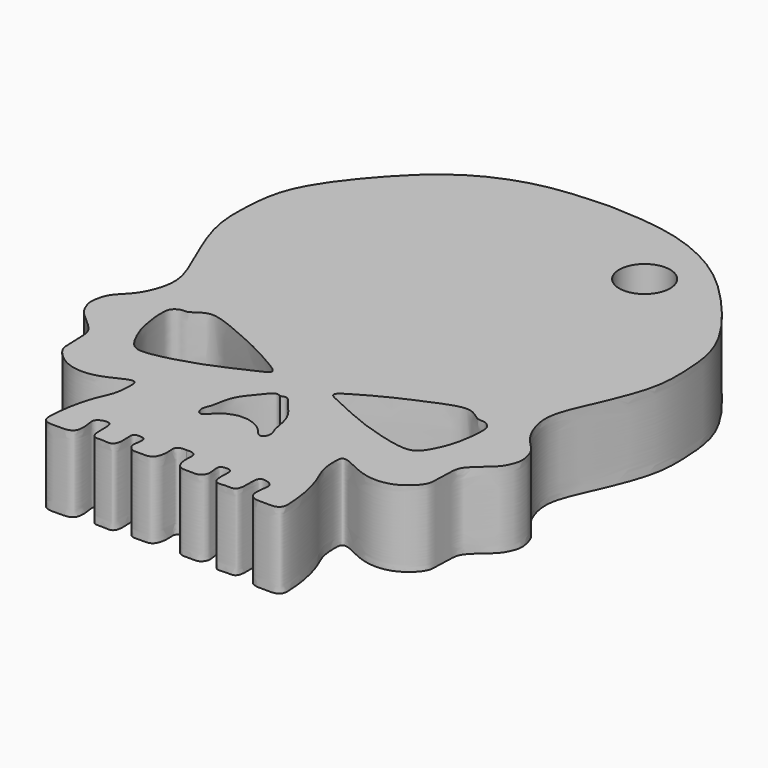
from build123d import *

# Parameters (mm, degrees)
F0_R     = 1
F1_DEPTH = 3


with BuildPart() as f1:
    # F0 (on Top) → F1 (new body)
    with BuildSketch(Plane.XY):
        with BuildLine():
            add(Edge.make_bspline(
                [(-12.2408336028, 23.503176868), (-11.4103945755, 23.4699987669), (-9.7347391672, 23.4030521727), (-7.264092826, 22.3928211933), (-5.4048672411, 20.5595833706), (-3.7344067316, 18.3647939232), (-3.573884551, 16.5518379289), (-3.5436797426, 14.9927936331), (-4.3145768781, 13.1462043906), (-4.8992338903, 11.8773081899), (-5.0138249848, 10.9789423325), (-4.5882463348, 9.8837158669), (-3.9444933397, 9.3995340535), (-3.8082519247, 8.8859373116), (-3.7522349987, 8.5383697091), (-3.9502914121, 8.0303656315), (-4.2499839526, 7.7061902572), (-4.936186847, 7.1623075457), (-5.0194935775, 6.7238970438), (-5.0223568546, 5.9401759747), (-5.0494039457, 5.5628870362), (-5.5487741256, 5.0385178988), (-6.1953214864, 4.784593976), (-6.9234407336, 4.8263136332), (-7.5593584564, 5.1094497553), (-7.8936167216, 5.2877581346), (-8.2281539466, 5.3483678422), (-8.2290751173, 4.8609269738), (-8.181865829, 4.3157382137), (-7.9327788892, 3.8307192173), (-7.7251537907, 3.1978938481), (-7.5917927758, 2.4785776524), (-7.5712822642, 2.0558808672), (-7.5327259701, 1.67797195), (-7.7558575145, 1.4694384501), (-8.1797331198, 1.5007855316), (-8.4997121561, 1.4797550624), (-8.8455921112, 1.6112543965), (-8.8284536186, 2.1628243112), (-8.723597896, 2.5446197001), (-9.0683491592, 2.7014116418), (-9.324565824, 2.6786124177), (-9.3802011753, 2.3813917657), (-9.3404075794, 1.910044513), (-9.4666134541, 1.605899007), (-9.8213151988, 1.6638375431), (-10.1700666553, 1.5875112978), (-10.3273946144, 1.8162166534), (-10.3114425118, 2.2251423511), (-10.2868292916, 2.5710730463), (-10.6177271301, 2.5691114393), (-10.806322149, 2.5020179392), (-10.7470690626, 2.1180790134), (-10.725838652, 1.91342136), (-10.9097706094, 1.6604091412), (-11.2361397619, 1.6917391152), (-11.5572433347, 1.6682988011), (-11.7738789571, 1.7759885742), (-11.8732375358, 2.0900331738), (-11.870835306, 2.4069932209), (-11.8442552434, 2.6215654496), (-12.0046996371, 2.7506900903), (-12.1580197149, 2.7407864035), (-12.2408336028, 2.7354371268)],
                knots=[0, 0, 0, 0, 0.034798512, 0.0701523639, 0.1059936901, 0.1421416225, 0.1711906677, 0.1985036922, 0.2296374652, 0.2555986967, 0.276145718, 0.2994812234, 0.3190584032, 0.3344185498, 0.3474063767, 0.3630060795, 0.3781744286, 0.3981620314, 0.4130099736, 0.4321607614, 0.4457196409, 0.4636930091, 0.4820503674, 0.5007317439, 0.519028979, 0.5328482662, 0.5435334479, 0.5572698867, 0.5739660097, 0.5900557878, 0.6081871977, 0.627021773, 0.6415507058, 0.6545261572, 0.6656300661, 0.6797249028, 0.6924668283, 0.7045225687, 0.7202562413, 0.733444769, 0.7457596114, 0.7559814006, 0.7671829121, 0.7826890223, 0.7940477711, 0.806565694, 0.8193032714, 0.8296468308, 0.8440232875, 0.8557566587, 0.8670470243, 0.8760289978, 0.8889429215, 0.8992455358, 0.9104488838, 0.9227917778, 0.9353107853, 0.9455111939, 0.9578037236, 0.9704231852, 0.9802283138, 0.9893107323, 1, 1, 1, 1], degree=3))
            add(Edge.make_bspline(
                [(-12.2408336028, 23.503176868), (-13.0712726302, 23.4699987669), (-14.7469280385, 23.4030521727), (-17.2175743797, 22.3928211933), (-19.0767999646, 20.5595833706), (-20.7472604741, 18.3647939232), (-20.9077826547, 16.5518379289), (-20.9379874631, 14.9927936331), (-20.1670903276, 13.1462043906), (-19.5824333153, 11.8773081899), (-19.4678422209, 10.9789423325), (-19.8934208708, 9.8837158669), (-20.537173866, 9.3995340535), (-20.673415281, 8.8859373116), (-20.7294322069, 8.5383697091), (-20.5313757936, 8.0303656315), (-20.2316832531, 7.7061902572), (-19.5454803587, 7.1623075457), (-19.4621736282, 6.7238970438), (-19.4593103511, 5.9401759747), (-19.43226326, 5.5628870362), (-18.9328930801, 5.0385178988), (-18.2863457193, 4.784593976), (-17.5582264721, 4.8263136332), (-16.9223087493, 5.1094497553), (-16.5880504841, 5.2877581346), (-16.2535132591, 5.3483678422), (-16.2525920884, 4.8609269738), (-16.2998013767, 4.3157382137), (-16.5488883165, 3.8307192173), (-16.756513415, 3.1978938481), (-16.8898744299, 2.4785776524), (-16.9103849415, 2.0558808672), (-16.9489412356, 1.67797195), (-16.7258096912, 1.4694384501), (-16.3019340859, 1.5007855316), (-15.9819550496, 1.4797550624), (-15.6360750945, 1.6112543965), (-15.6532135871, 2.1628243112), (-15.7580693097, 2.5446197001), (-15.4133180464, 2.7014116418), (-15.1571013817, 2.6786124177), (-15.1014660304, 2.3813917657), (-15.1412596263, 1.910044513), (-15.0150537516, 1.605899007), (-14.6603520069, 1.6638375431), (-14.3116005504, 1.5875112978), (-14.1542725912, 1.8162166534), (-14.1702246939, 2.2251423511), (-14.1948379141, 2.5710730463), (-13.8639400756, 2.5691114393), (-13.6753450566, 2.5020179392), (-13.7345981431, 2.1180790134), (-13.7558285537, 1.91342136), (-13.5718965963, 1.6604091412), (-13.2455274438, 1.6917391152), (-12.924423871, 1.6682988011), (-12.7077882486, 1.7759885742), (-12.6084296699, 2.0900331738), (-12.6108318997, 2.4069932209), (-12.6374119623, 2.6215654496), (-12.4769675686, 2.7506900903), (-12.3236474908, 2.7407864035), (-12.2408336028, 2.7354371268)],
                knots=[0, 0, 0, 0, 0.034798512, 0.0701523639, 0.1059936901, 0.1421416225, 0.1711906677, 0.1985036922, 0.2296374652, 0.2555986967, 0.276145718, 0.2994812234, 0.3190584032, 0.3344185498, 0.3474063767, 0.3630060795, 0.3781744286, 0.3981620314, 0.4130099736, 0.4321607614, 0.4457196409, 0.4636930091, 0.4820503674, 0.5007317439, 0.519028979, 0.5328482662, 0.5435334479, 0.5572698867, 0.5739660097, 0.5900557878, 0.6081871977, 0.627021773, 0.6415507058, 0.6545261572, 0.6656300661, 0.6797249028, 0.6924668283, 0.7045225687, 0.7202562413, 0.733444769, 0.7457596114, 0.7559814006, 0.7671829121, 0.7826890223, 0.7940477711, 0.806565694, 0.8193032714, 0.8296468308, 0.8440232875, 0.8557566587, 0.8670470243, 0.8760289978, 0.8889429215, 0.8992455358, 0.9104488838, 0.9227917778, 0.9353107853, 0.9455111939, 0.9578037236, 0.9704231852, 0.9802283138, 0.9893107323, 1, 1, 1, 1], degree=3))
        make_face()
        with BuildLine():
            add(Edge.make_bspline(
                [(-12.2408336028, 7.3368577287), (-12.312408824, 7.3683461244), (-12.4899849679, 7.4464990356), (-12.8039132135, 6.999974864), (-13.3780327213, 6.3881470951), (-13.4528731388, 5.5892458806), (-13.5454985714, 5.4012085109), (-13.6407577801, 5.1133868587), (-13.4471420183, 4.8187136976), (-13.2077852993, 5.0184971863), (-13.1017266106, 5.1762228338), (-12.8580801773, 5.3771935142), (-12.5715474903, 5.4723404734), (-12.404452078, 5.5303685367), (-12.2408336028, 5.5147502571)],
                knots=[0, 0, 0, 0, 0.0660119047, 0.162907013, 0.2960489573, 0.4182965845, 0.482891049, 0.5582273762, 0.6302451358, 0.6990594804, 0.7632310531, 0.8409726444, 0.9166113455, 1, 1, 1, 1], degree=3))
            add(Edge.make_bspline(
                [(-12.2408336028, 7.3368577287), (-12.1692583817, 7.3683461244), (-11.9916822378, 7.4464990356), (-11.6777539922, 6.999974864), (-11.1036344843, 6.3881470951), (-11.0287940669, 5.5892458806), (-10.9361686343, 5.4012085109), (-10.8409094256, 5.1133868587), (-11.0345251874, 4.8187136976), (-11.2738819064, 5.0184971863), (-11.3799405951, 5.1762228338), (-11.6235870284, 5.3771935142), (-11.9101197154, 5.4723404734), (-12.0772151276, 5.5303685367), (-12.2408336028, 5.5147502571)],
                knots=[0, 0, 0, 0, 0.0660119047, 0.162907013, 0.2960489573, 0.4182965845, 0.482891049, 0.5582273762, 0.6302451358, 0.6990594804, 0.7632310531, 0.8409726444, 0.9166113455, 1, 1, 1, 1], degree=3))
        make_face(mode=Mode.SUBTRACT)
        with BuildLine():
            add(Edge.make_bspline(
                [(-17.2138307244, 10.2522298694), (-17.4031610207, 10.2557585841), (-17.6542407662, 10.1318028159), (-17.9392800945, 9.8884920101), (-18.1841641387, 9.9428981819), (-18.4706381166, 9.77289919), (-18.5591664534, 9.4695336747), (-18.4752691781, 8.5354566549), (-18.2774778446, 7.8823468315), (-17.9324848586, 7.1923683556), (-17.5494481643, 6.9666637141), (-16.7448049816, 7.0657248567), (-15.1334351749, 7.5480378487), (-13.9703378568, 8.1497418425), (-13.2701306534, 8.4219577753), (-13.9148151836, 8.8442261757), (-14.9722900275, 9.4173310109), (-16.0343378856, 9.8775013921), (-16.9142469374, 10.2466462637), (-17.2138307244, 10.2522298694)],
                knots=[0, 0, 0, 0, 0.0481902348, 0.0892045449, 0.1228859253, 0.1606596348, 0.1988898811, 0.2658391081, 0.3265782983, 0.3864640697, 0.4301807708, 0.4910928402, 0.5835274793, 0.6671164148, 0.715890916, 0.7663490101, 0.845407089, 0.9237469475, 1, 1, 1, 1], degree=3))
        make_face(mode=Mode.SUBTRACT)
        with BuildLine():
            add(Edge.make_bspline(
                [(-7.2678364813, 10.2522298694), (-7.078506185, 10.2557585841), (-6.8274264395, 10.1318028159), (-6.5423871112, 9.8884920101), (-6.297503067, 9.9428981819), (-6.0110290891, 9.77289919), (-5.9225007523, 9.4695336747), (-6.0063980276, 8.5354566549), (-6.2041893611, 7.8823468315), (-6.5491823471, 7.1923683556), (-6.9322190414, 6.9666637141), (-7.7368622241, 7.0657248567), (-9.3482320307, 7.5480378487), (-10.5113293489, 8.1497418425), (-11.2115365523, 8.4219577753), (-10.566852022, 8.8442261757), (-9.5093771782, 9.4173310109), (-8.4473293201, 9.8775013921), (-7.5674202683, 10.2466462637), (-7.2678364813, 10.2522298694)],
                knots=[0, 0, 0, 0, 0.0481902348, 0.0892045449, 0.1228859253, 0.1606596348, 0.1988898811, 0.2658391081, 0.3265782983, 0.3864640697, 0.4301807708, 0.4910928402, 0.5835274793, 0.6671164148, 0.715890916, 0.7663490101, 0.845407089, 0.9237469475, 1, 1, 1, 1], degree=3))
        make_face(mode=Mode.SUBTRACT)
        with Locations((-8.3682620898, 20.390316844)):
            Circle(F0_R, mode=Mode.SUBTRACT)
    extrude(amount=F1_DEPTH)


solid = f1.part
